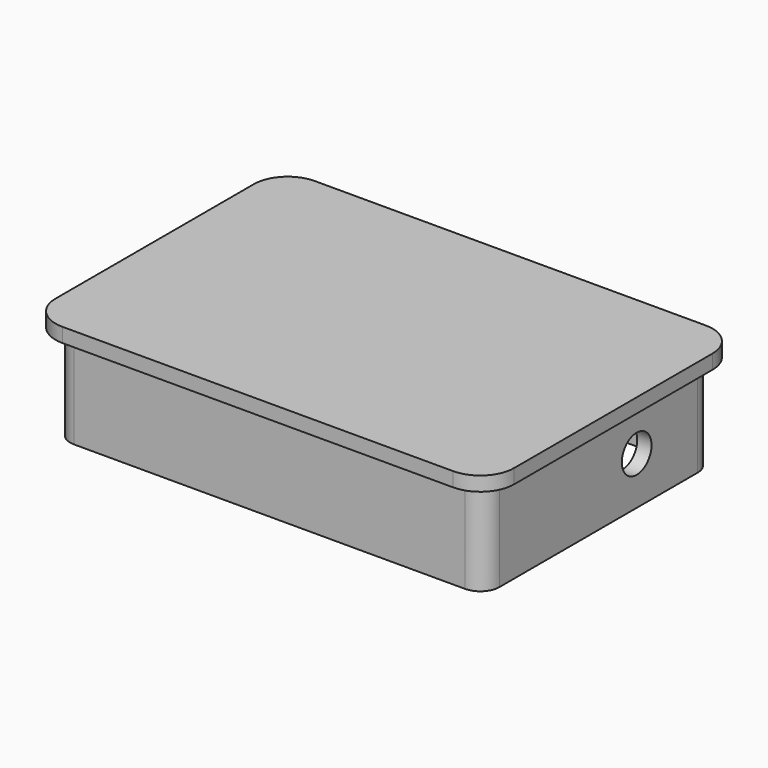
from build123d import *

# Parameters (mm, degrees)
F0_W     = 114.3
F0_H     = 76.2
F1_DEPTH = 25.4
F2_R     = 5.08
F3_T     = -3.81
F4_R     = 4.953
F5_DEPTH = 25.4
F7_DEPTH = 3.81


with BuildPart() as f1:
    # F0 (on Top) → F1 (new body)
    with BuildSketch(Plane.XY):
        with Locations((57.15, -38.1)):
            Rectangle(F0_W, F0_H)
    extrude(amount=F1_DEPTH)

    # F2
    f2_edges = [f1.edges().sort_by_distance(p)[0] for p in [
        (114.3, 0, 12.7),
        (114.3, -76.2, 12.7),
        (0, 0, 12.7),
        (0, -76.2, 12.7),
    ]]
    fillet(f2_edges, radius=F2_R)

    # F3
    f3_openings = [f1.faces().sort_by_distance(p)[0] for p in [
        (57.15, -38.1, 0),
    ]]
    offset(amount=F3_T, openings=f3_openings)

    # F4 (on face) → F5 (cut)
    with BuildSketch(Plane.YZ.offset(114.3)):
        with Locations((-25.4, 12.7)):
            Circle(F4_R)
    extrude(amount=-F5_DEPTH, mode=Mode.SUBTRACT)

    # F6 (on face) → F7 (join)
    with BuildSketch(Plane.XY.offset(25.4)):
        with BuildLine():
            Line((109.22, 3.937), (5.08, 3.937))
            ThreePointArc((5.08, 3.937), (-1.295982, 1.295982), (-3.937, -5.08))
            Line((-3.937, -5.08), (-3.937, -71.12))
            ThreePointArc((-3.937, -71.12), (-1.295982, -77.495982), (5.08, -80.137))
            Line((5.08, -80.137), (109.22, -80.137))
            ThreePointArc((109.22, -80.137), (115.595982, -77.495982), (118.237, -71.12))
            Line((118.237, -71.12), (118.237, -5.08))
            ThreePointArc((118.237, -5.08), (115.595982, 1.295982), (109.22, 3.937))
        make_face()
        with BuildLine():
            ThreePointArc((-0.127, -5.08), (1.398095, -1.398095), (5.08, 0.127))
            Line((5.08, 0.127), (109.22, 0.127))
            ThreePointArc((109.22, 0.127), (112.901905, -1.398095), (114.427, -5.08))
            Line((114.427, -5.08), (114.427, -71.12))
            ThreePointArc((114.427, -71.12), (112.901905, -74.801905), (109.22, -76.327))
            Line((109.22, -76.327), (5.08, -76.327))
            ThreePointArc((5.08, -76.327), (1.398095, -74.801905), (-0.127, -71.12))
            Line((-0.127, -71.12), (-0.127, -5.08))
        make_face(mode=Mode.SUBTRACT)
        with BuildLine():
            Line((109.22, 0.127), (5.08, 0.127))
            ThreePointArc((5.08, 0.127), (1.398095, -1.398095), (-0.127, -5.08))
            Line((-0.127, -5.08), (-0.127, -71.12))
            ThreePointArc((-0.127, -71.12), (1.398095, -74.801905), (5.08, -76.327))
            Line((5.08, -76.327), (109.22, -76.327))
            ThreePointArc((109.22, -76.327), (112.901905, -74.801905), (114.427, -71.12))
            Line((114.427, -71.12), (114.427, -5.08))
            ThreePointArc((114.427, -5.08), (112.901905, -1.398095), (109.22, 0.127))
        make_face()
        with BuildLine():
            ThreePointArc((5.08, -76.2), (1.487898, -74.712102), (0, -71.12))
            Line((0, -71.12), (0, -5.08))
            ThreePointArc((0, -5.08), (1.487898, -1.487898), (5.08, 0))
            Line((5.08, 0), (109.22, 0))
            ThreePointArc((109.22, 0), (112.812102, -1.487898), (114.3, -5.08))
            Line((114.3, -5.08), (114.3, -71.12))
            ThreePointArc((114.3, -71.12), (112.812102, -74.712102), (109.22, -76.2))
            Line((109.22, -76.2), (5.08, -76.2))
        make_face(mode=Mode.SUBTRACT)
        with BuildLine():
            Line((0, -5.08), (0, -71.12))
            ThreePointArc((0, -71.12), (1.487898, -74.712102), (5.08, -76.2))
            Line((5.08, -76.2), (109.22, -76.2))
            ThreePointArc((109.22, -76.2), (112.812102, -74.712102), (114.3, -71.12))
            Line((114.3, -71.12), (114.3, -5.08))
            ThreePointArc((114.3, -5.08), (112.812102, -1.487898), (109.22, 0))
            Line((109.22, 0), (5.08, 0))
            ThreePointArc((5.08, 0), (1.487898, -1.487898), (0, -5.08))
        make_face()
    extrude(amount=F7_DEPTH)


solid = f1.part
